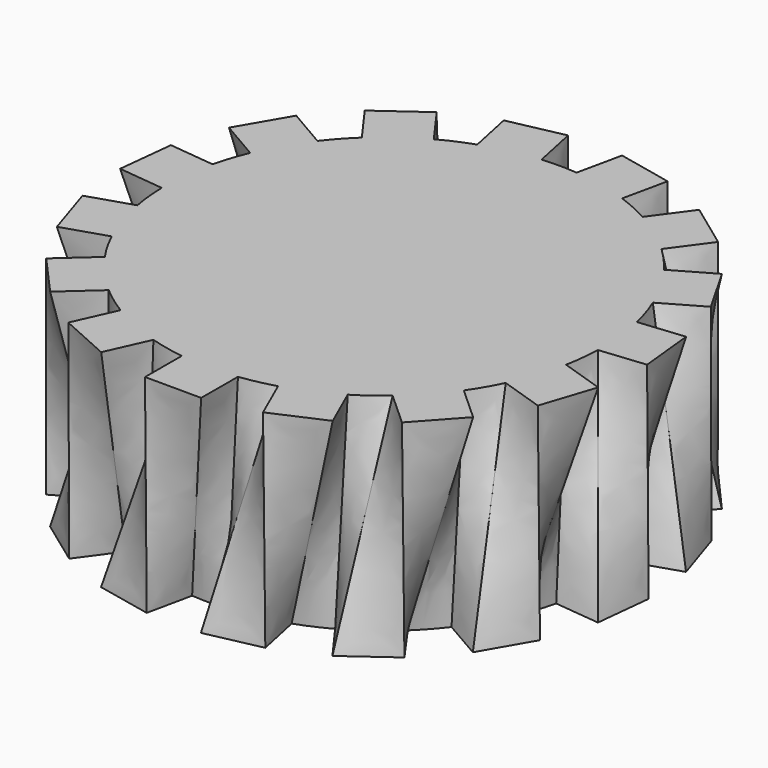
from build123d import *


with BuildPart() as f3:
    # F2 (on offset) → F3 section 0
    with BuildSketch(Plane.XY.offset(25.4)):
        with BuildLine():
            Line((-21.66401, 24.117318), (-18.373145, 19.557289))
            ThreePointArc((-18.373145, 19.557289), (-19.884077, 18.018976), (-21.26662, 16.364317))
            Line((-21.26662, 16.364317), (-26.127705, 19.191596))
            Line((-26.127705, 19.191596), (-29.600454, 13.220719))
            Line((-29.600454, 13.220719), (-24.739369, 10.393441))
            ThreePointArc((-24.739369, 10.393441), (-25.493986, 8.373571), (-26.083992, 6.299634))
            Line((-26.083992, 6.299634), (-31.674772, 6.9053))
            Line((-31.674772, 6.9053), (-32.418712, 0.038139))
            Line((-32.418712, 0.038139), (-26.827932, -0.567527))
            ThreePointArc((-26.827932, -0.567527), (-26.695753, -2.7197), (-26.391204, -4.854313))
            Line((-26.391204, -4.854313), (-31.744982, -6.574985))
            Line((-31.744982, -6.574985), (-29.631479, -13.151037))
            Line((-29.631479, -13.151037), (-24.277701, -11.430365))
            ThreePointArc((-24.277701, -11.430365), (-23.281582, -13.342711), (-22.135138, -15.168905))
            Line((-22.135138, -15.168905), (-26.326197, -18.918395))
            Line((-26.326197, -18.918395), (-21.720695, -24.066278))
            Line((-21.720695, -24.066278), (-17.529635, -20.316788))
            ThreePointArc((-17.529635, -20.316788), (-15.841814, -21.658646), (-14.051705, -22.860656))
            Line((-14.051705, -22.860656), (-16.355374, -27.990643))
            Line((-16.355374, -27.990643), (-10.054205, -30.820242))
            Line((-10.054205, -30.820242), (-7.750536, -25.690255))
            ThreePointArc((-7.750536, -25.690255), (-5.662853, -26.229604), (-3.538605, -26.599592))
            Line((-3.538605, -26.599592), (-3.556557, -32.223054))
            Line((-3.556557, -32.223054), (3.350748, -32.245105))
            Line((3.350748, -32.245105), (3.368701, -26.621643))
            ThreePointArc((3.368701, -26.621643), (5.495268, -26.265225), (7.586352, -25.739216))
            Line((7.586352, -25.739216), (9.85722, -30.883807))
            Line((9.85722, -30.883807), (16.176327, -28.094497))
            Line((16.176327, -28.094497), (13.905459, -22.949907))
            ThreePointArc((13.905459, -22.949907), (15.703206, -21.75935), (17.39956, -20.428297))
            Line((17.39956, -20.428297), (21.566595, -24.204469))
            Line((21.566595, -24.204469), (26.204871, -19.086096))
            Line((26.204871, -19.086096), (22.037837, -15.309923))
            ThreePointArc((22.037837, -15.309923), (23.195918, -13.491086), (24.204226, -11.585139))
            Line((24.204226, -11.585139), (29.546909, -13.339958))
            Line((29.546909, -13.339958), (31.702356, -6.777535))
            Line((31.702356, -6.777535), (26.359673, -5.022715))
            ThreePointArc((26.359673, -5.022715), (26.677844, -2.890091), (26.823761, -0.738805))
            Line((26.823761, -0.738805), (32.418295, -0.168848))
            Line((32.418295, -0.168848), (31.718215, 6.702924))
            Line((31.718215, 6.702924), (26.123682, 6.132966))
            ThreePointArc((26.123682, 6.132966), (25.546929, 8.210628), (24.805225, 10.235274))
            Line((24.805225, 10.235274), (29.684262, 13.031458))
            Line((29.684262, 13.031458), (26.249706, 19.024386))
            Line((26.249706, 19.024386), (21.370669, 16.228202))
            ThreePointArc((21.370669, 16.228202), (19.998718, 17.891654), (18.497639, 19.439582))
            Line((18.497639, 19.439582), (21.817551, 23.978507))
            Line((21.817551, 23.978507), (16.242385, 28.056359))
            Line((16.242385, 28.056359), (12.922473, 23.517434))
            ThreePointArc((12.922473, 23.517434), (10.992547, 24.479051), (8.991644, 25.28261))
            Line((8.991644, 25.28261), (10.178388, 30.779453))
            Line((10.178388, 30.779453), (3.426608, 32.237132))
            Line((3.426608, 32.237132), (2.239864, 26.740288))
            ThreePointArc((2.239864, 26.740288), (0.085664, 26.833797), (-2.069088, 26.754044))
            Line((-2.069088, 26.754044), (-3.220712, 32.258353))
            Line((-3.220712, 32.258353), (-9.981661, 30.843813))
            Line((-9.981661, 30.843813), (-8.830037, 25.339504))
            ThreePointArc((-8.830037, 25.339504), (-10.83603, 24.548736), (-12.772056, 23.599461))
            Line((-12.772056, 23.599461), (-16.062921, 28.15949))
            Line((-16.062921, 28.15949), (-21.66401, 24.117318))
        make_face()
    # F0 (on Top) → F3 section 1
    with BuildSketch(Plane.XY):
        with BuildLine():
            Line((-26.265668, 19.002342), (-22.0866, 15.239492))
            ThreePointArc((-22.0866, 15.239492), (-23.238868, 13.416967), (-24.241087, 11.507811))
            Line((-24.241087, 11.507811), (-29.589345, 13.245565))
            Line((-29.589345, 13.245565), (-31.723831, 6.676294))
            Line((-31.723831, 6.676294), (-26.375573, 4.938539))
            ThreePointArc((-26.375573, 4.938539), (-26.686935, 2.80491), (-26.825983, 0.65317))
            Line((-26.825983, 0.65317), (-32.418668, 0.065355))
            Line((-32.418668, 0.065355), (-31.696655, -6.804147))
            Line((-31.696655, -6.804147), (-26.10397, -6.216332))
            ThreePointArc((-26.10397, -6.216332), (-25.520588, -8.292142), (-24.772423, -10.31441))
            Line((-24.772423, -10.31441), (-29.642509, -13.126156))
            Line((-29.642509, -13.126156), (-26.188839, -19.108088))
            Line((-26.188839, -19.108088), (-21.318753, -16.296343))
            ThreePointArc((-21.318753, -16.296343), (-19.941499, -17.955406), (-18.435486, -19.498535))
            Line((-18.435486, -19.498535), (-21.740891, -24.048035))
            Line((-21.740891, -24.048035), (-16.152735, -28.108068))
            Line((-16.152735, -28.108068), (-12.84733, -23.558568))
            ThreePointArc((-12.84733, -23.558568), (-10.914344, -24.514018), (-8.910886, -25.311186))
            Line((-8.910886, -25.311186), (-10.080076, -30.81179))
            Line((-10.080076, -30.81179), (-3.323677, -32.247907))
            Line((-3.323677, -32.247907), (-2.154487, -26.747303))
            ThreePointArc((-2.154487, -26.747303), (0, -26.833934), (2.154487, -26.747303))
            Line((2.154487, -26.747303), (3.323677, -32.247907))
            Line((3.323677, -32.247907), (10.080076, -30.81179))
            Line((10.080076, -30.81179), (8.910886, -25.311186))
            ThreePointArc((8.910886, -25.311186), (10.914344, -24.514018), (12.84733, -23.558568))
            Line((12.84733, -23.558568), (16.152735, -28.108068))
            Line((16.152735, -28.108068), (21.740891, -24.048035))
            Line((21.740891, -24.048035), (18.435486, -19.498535))
            ThreePointArc((18.435486, -19.498535), (19.941499, -17.955406), (21.318753, -16.296343))
            Line((21.318753, -16.296343), (26.188839, -19.108088))
            Line((26.188839, -19.108088), (29.642509, -13.126156))
            Line((29.642509, -13.126156), (24.772423, -10.31441))
            ThreePointArc((24.772423, -10.31441), (25.520588, -8.292142), (26.10397, -6.216332))
            Line((26.10397, -6.216332), (31.696655, -6.804147))
            Line((31.696655, -6.804147), (32.418668, 0.065355))
            Line((32.418668, 0.065355), (26.825983, 0.65317))
            ThreePointArc((26.825983, 0.65317), (26.686935, 2.80491), (26.375573, 4.938539))
            Line((26.375573, 4.938539), (31.723831, 6.676294))
            Line((31.723831, 6.676294), (29.589345, 13.245565))
            Line((29.589345, 13.245565), (24.241087, 11.507811))
            ThreePointArc((24.241087, 11.507811), (23.238868, 13.416967), (22.0866, 15.239492))
            Line((22.0866, 15.239492), (26.265668, 19.002342))
            Line((26.265668, 19.002342), (21.643755, 24.135496))
            Line((21.643755, 24.135496), (17.464687, 20.372646))
            ThreePointArc((17.464687, 20.372646), (15.772591, 21.709109), (13.978653, 22.905398))
            Line((13.978653, 22.905398), (16.265933, 28.042713))
            Line((16.265933, 28.042713), (9.955763, 30.852181))
            Line((9.955763, 30.852181), (7.668483, 25.714867))
            ThreePointArc((7.668483, 25.714867), (5.579089, 26.247548), (3.45367, 26.610753))
            Line((3.45367, 26.610753), (3.45367, 32.234244))
            Line((3.45367, 32.234244), (-3.45367, 32.234244))
            Line((-3.45367, 32.234244), (-3.45367, 26.610753))
            ThreePointArc((-3.45367, 26.610753), (-5.579089, 26.247548), (-7.668483, 25.714867))
            Line((-7.668483, 25.714867), (-9.955763, 30.852181))
            Line((-9.955763, 30.852181), (-16.265933, 28.042713))
            Line((-16.265933, 28.042713), (-13.978653, 22.905398))
            ThreePointArc((-13.978653, 22.905398), (-15.772591, 21.709109), (-17.464687, 20.372646))
            Line((-17.464687, 20.372646), (-21.643755, 24.135496))
            Line((-21.643755, 24.135496), (-26.265668, 19.002342))
        make_face()
    loft()


solid = f3.part
